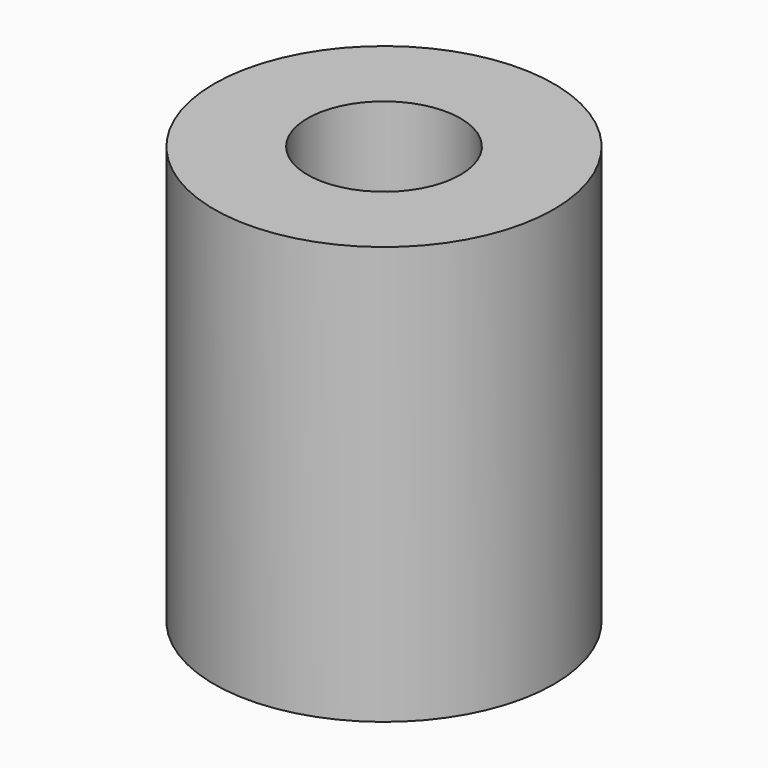
from build123d import *

# Parameters (mm, degrees)
SKETCH_R     = 5
PAD_DEPTH    = 12.3
SKETCH001_R  = 2.25
POCKET_DEPTH = 12.301


with BuildPart() as part:
    # Sketch → Pad (new body)
    with BuildSketch(Plane.XY):
        Circle(SKETCH_R)
    extrude(amount=PAD_DEPTH)

    # Sketch001 → Pocket (cut, through all)
    with BuildSketch(Plane.XY.offset(12.3)):
        Circle(SKETCH001_R)
    extrude(amount=-POCKET_DEPTH, mode=Mode.SUBTRACT)


solid = part.part
